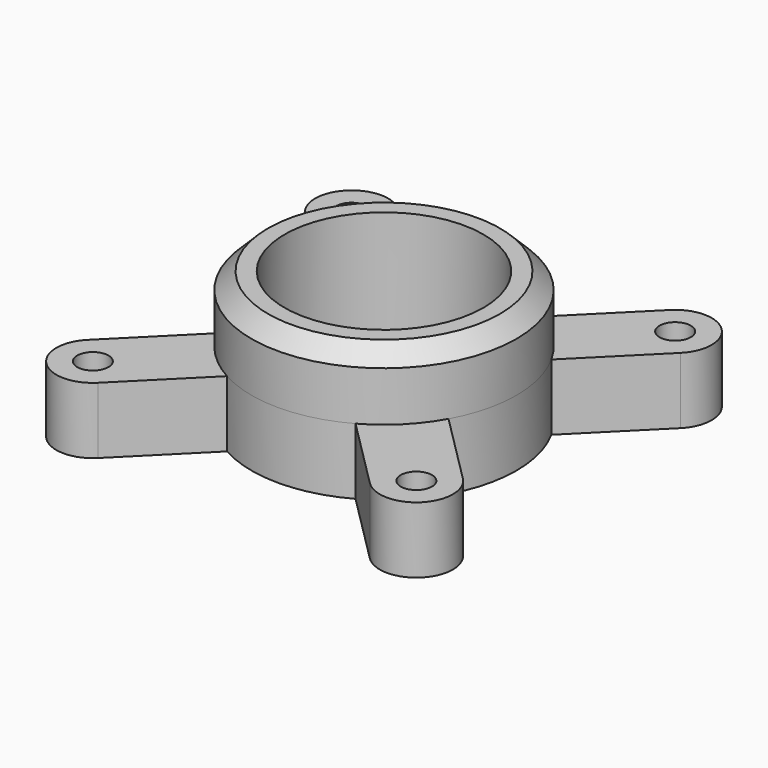
from build123d import *

# Parameters (mm, degrees)
F0_R     = 1.5
F0_R_2   = 9.525
F1_DEPTH = 6.35
F2_SIZE  = 1.5875
F3_R     = 12.7
F3_R_2   = 9.525
F4_DEPTH = 6.35
F5_SIZE  = 1.5875


with BuildPart() as f1:
    # F0 (on Top) → F1 (new body)
    with BuildSketch(Plane.XY):
        with BuildLine():
            Line((-17.974874, 13.025126), (-11.10737, 6.157623))
            ThreePointArc((-11.10737, 6.157623), (-12.7, 0), (-11.10737, -6.157623))
            Line((-11.10737, -6.157623), (-17.974874, -13.025126))
            ThreePointArc((-17.974874, -13.025126), (-17.974874, -17.974874), (-13.025126, -17.974874))
            Line((-13.025126, -17.974874), (-6.157623, -11.10737))
            ThreePointArc((-6.157623, -11.10737), (0, -12.7), (6.157623, -11.10737))
            Line((6.157623, -11.10737), (13.025126, -17.974874))
            ThreePointArc((13.025126, -17.974874), (17.974874, -17.974874), (17.974874, -13.025126))
            Line((17.974874, -13.025126), (11.10737, -6.157623))
            ThreePointArc((11.10737, -6.157623), (12.7, 0), (11.10737, 6.157623))
            Line((11.10737, 6.157623), (17.974874, 13.025126))
            ThreePointArc((17.974874, 13.025126), (17.974874, 17.974874), (13.025126, 17.974874))
            Line((13.025126, 17.974874), (6.157623, 11.10737))
            ThreePointArc((6.157623, 11.10737), (0, 12.7), (-6.157623, 11.10737))
            Line((-6.157623, 11.10737), (-13.025126, 17.974874))
            ThreePointArc((-13.025126, 17.974874), (-17.974874, 17.974874), (-17.974874, 13.025126))
        make_face()
        with Locations((-15.5, -15.5)):
            Circle(F0_R, mode=Mode.SUBTRACT)
        with Locations((15.5, -15.5)):
            Circle(F0_R, mode=Mode.SUBTRACT)
        with Locations((-15.5, 15.5)):
            Circle(F0_R, mode=Mode.SUBTRACT)
        Circle(F0_R_2, mode=Mode.SUBTRACT)
        with Locations((15.5, 15.5)):
            Circle(F0_R, mode=Mode.SUBTRACT)
    extrude(amount=F1_DEPTH)

    # F2
    f2_edges = [f1.edges().sort_by_distance(p)[0] for p in [
        (-17, -15.5, 0),
        (14, -15.5, 0),
        (14, 15.5, 0),
        (-17, 15.5, 0),
    ]]
    chamfer(f2_edges, length=F2_SIZE)

    # F3 (on face) → F4 (join)
    with BuildSketch(Plane.XY.offset(6.35)):
        Circle(F3_R)
        Circle(F3_R_2, mode=Mode.SUBTRACT)
    extrude(amount=F4_DEPTH)

    # F5
    f5_edges = [f1.edges().sort_by_distance(p)[0] for p in [
        (-12.7, 0, 12.7),
    ]]
    chamfer(f5_edges, length=F5_SIZE)


solid = f1.part
